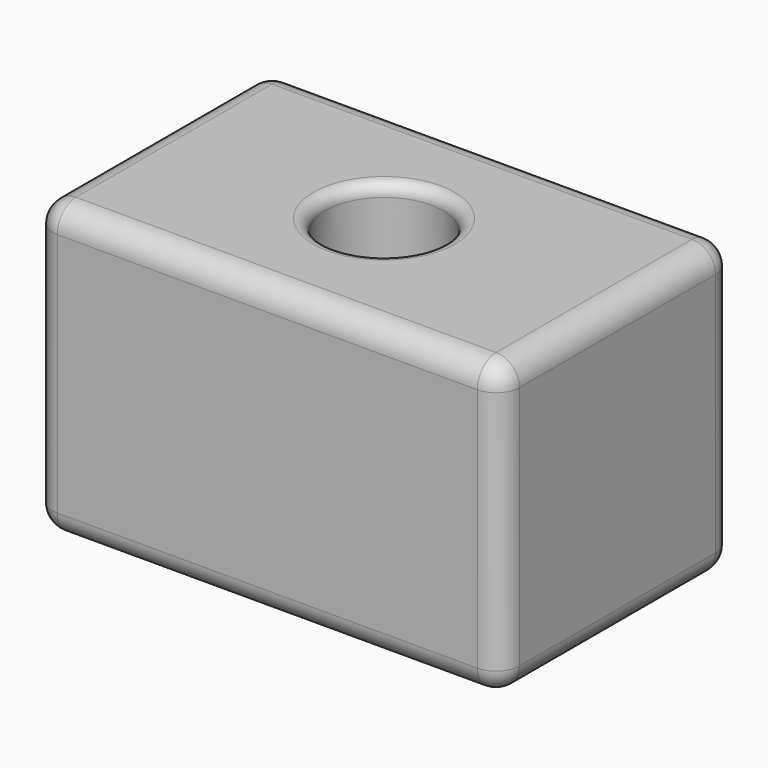
from build123d import *

# Parameters (mm, degrees)
F0_W     = 101.6
F0_H     = 63.5
F1_DEPTH = 31.75
F2_R     = 5.08
F3_R     = 12.7
F4_DEPTH = 86.868
F4_TAPER = -3
F5_R     = 2.54


with BuildPart() as f1:
    # F0 (on Top) → F1 (new body, symmetric)
    with BuildSketch(Plane.XY):
        Rectangle(F0_W, F0_H)
    extrude(amount=F1_DEPTH, both=True)

    # F2
    f2_edges = [f1.edges().sort_by_distance(p)[0] for p in [
        (50.8, 0, 31.75),
        (0, 31.75, 31.75),
        (-50.8, 0, 31.75),
        (0, -31.75, 31.75),
        (0, -31.75, -31.75),
        (50.8, -31.75, 0),
        (-50.8, -31.75, 0),
        (-50.8, 31.75, 0),
        (-50.8, 0, -31.75),
        (50.8, 0, -31.75),
        (0, 31.75, -31.75),
        (50.8, 31.75, 0),
    ]]
    fillet(f2_edges, radius=F2_R)

    # F3 (on face) → F4 (cut)
    with BuildSketch(Plane.XY.offset(31.75)):
        Circle(F3_R)
    extrude(amount=-F4_DEPTH, taper=F4_TAPER, mode=Mode.SUBTRACT)

    # F5
    f5_edges = [f1.edges().sort_by_distance(p)[0] for p in [
        (-12.7, 0, 31.75),
        (-16.027894, 0, -31.75),
    ]]
    fillet(f5_edges, radius=F5_R)


solid = f1.part
